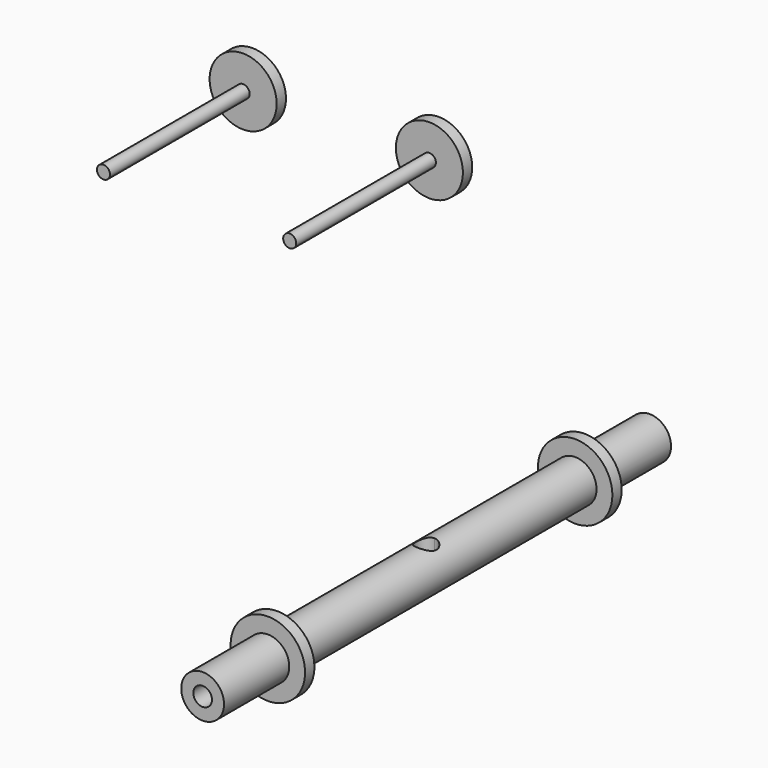
from build123d import *

# Parameters (mm, degrees)
F0_R      = 2.921
F1_DEPTH  = 76.2
F2_R      = 1.27
F3_DEPTH  = 25.4
F4_R      = 4.572
F4_R_2    = 0.889
F5_DEPTH  = 1.5875
F6_DEPTH  = 25.4
F7_R      = 1.27
F8_DEPTH  = 25.4
F9_W      = 1.27
F9_H      = 1.5875
F9_W_2    = 3.81
F10_DEPTH = 12.7


with BuildPart() as f1:
    # F0 (on Front) → F1 (new body)
    with BuildSketch(Plane.XZ):
        Circle(F0_R)
    extrude(amount=F1_DEPTH)

    # F2 (on face) → F3 (cut)
    with BuildSketch(Plane.XZ.offset(76.2)):
        Circle(F2_R)
    extrude(amount=-F3_DEPTH, mode=Mode.SUBTRACT)

    # F7 (on face) → F8 (cut)
    with BuildSketch(Plane(origin=(0, 0, 0), x_dir=(-1, 0, 0), z_dir=(0, 1, 0))):
        Circle(F7_R)
    extrude(amount=-F8_DEPTH, mode=Mode.SUBTRACT)

    # F9 (on Top) → F10 (cut, symmetric)
    with BuildSketch(Plane.XY):
        with Locations((0.635, -64.29375)):
            Rectangle(F9_W, F9_H)
        with Locations((-0.635, -64.29375)):
            Rectangle(F9_W, F9_H)
        with BuildLine():
            ThreePointArc((1.4097, -38.1), (0.996808, -37.103192), (0, -36.6903))
            Line((0, -36.6903), (0, -39.5097))
            ThreePointArc((0, -39.5097), (0.996808, -39.096808), (1.4097, -38.1))
        make_face()
        with BuildLine():
            Line((0, -39.5097), (0, -36.6903))
            ThreePointArc((0, -36.6903), (-1.4097, -38.1), (0, -39.5097))
        make_face()
        with Locations((0.635, -11.90625)):
            Rectangle(F9_W, F9_H)
        with Locations((3.175, -11.90625)):
            Rectangle(F9_W_2, F9_H)
        with Locations((-3.175, -64.29375)):
            Rectangle(F9_W_2, F9_H)
        with Locations((3.175, -64.29375)):
            Rectangle(F9_W_2, F9_H)
    extrude(amount=-F10_DEPTH, both=True, mode=Mode.SUBTRACT)

    # F9 (on Top) → F11 (revolve)
    with BuildSketch(Plane.XY):
        with Locations((-3.175, -64.29375)):
            Rectangle(F9_W_2, F9_H)
    revolve(axis=Axis((0, -38.1, 0), (0, 1, 0)))

    # F9 (on Top) → F12 (revolve)
    with BuildSketch(Plane.XY):
        with Locations((3.175, -11.90625)):
            Rectangle(F9_W_2, F9_H)
    revolve(axis=Axis((0, -11.90625, 0), (0, -1, 0)))


with BuildPart() as f5:
    # F4 (on Front) → F5 (new body)
    with BuildSketch(Plane.XZ):
        with Locations((-54.167356, 24.674617)):
            Circle(F4_R)
        with Locations((-54.167356, 24.674617)):
            Circle(F4_R_2, mode=Mode.SUBTRACT)
    extrude(amount=F5_DEPTH)

    # F4 (on Front) → F6 (join)
    with BuildSketch(Plane.XZ):
        with Locations((-54.167356, 24.674617)):
            Circle(F4_R_2)
    extrude(amount=F6_DEPTH)


with BuildPart() as f13_1:
    # F13: copy of F5
    add(f5.part.moved(Location((25.4, 0, 0))))


solid = Compound([f1.part, f5.part, f13_1.part])
